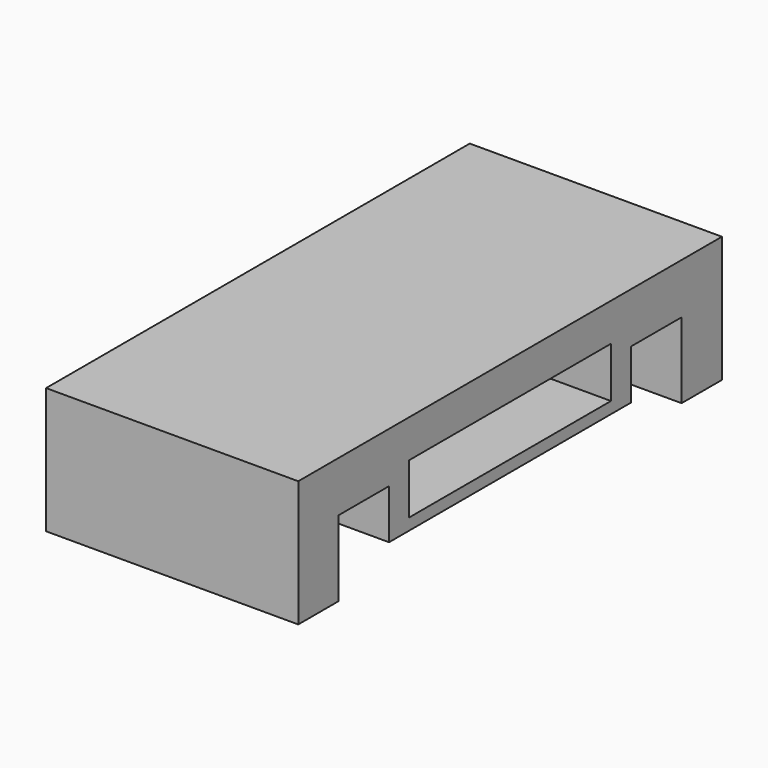
from build123d import *

# Parameters (mm, degrees)
F0_W     = 10
F0_H     = 2
F1_DEPTH = 10


with BuildPart() as f1:
    # F0 (on Right) → F1 (new body)
    with BuildSketch(Plane.YZ):
        Polygon((10.5, -2.5), (10.5, 2.5), (-10.5, 2.5), (-10.5, -2.5), (-8.5, -2.5), (-8.5, 0.5), (-6, 0.5), (-6, 1.459846), (6, 1.459846), (6, 0.5), (8.5, 0.5), (8.5, -2.5), align=None)
        Polygon((6, -1.459846), (6, 0.5), (6, 1.459846), (-6, 1.459846), (-6, 0.5), (-6, -1.459846), align=None)
        Rectangle(F0_W, F0_H, mode=Mode.SUBTRACT)
    extrude(amount=F1_DEPTH)


solid = f1.part
